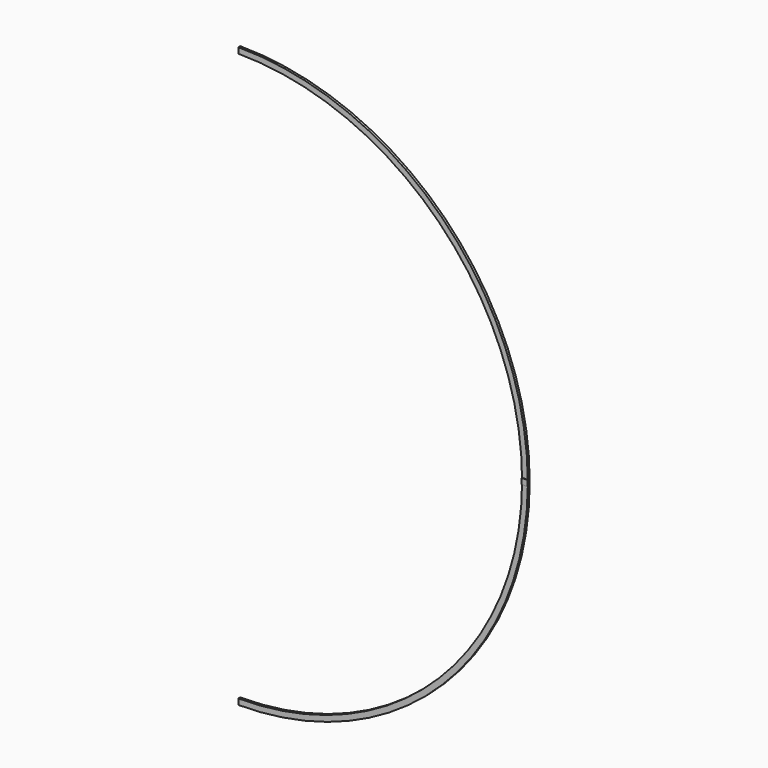
from build123d import *

# Parameters (mm, degrees)
F1_DEPTH = 4.1
F3_DEPTH = 1


with BuildPart() as f1:
    # F0 (on Front) → F1 (new body)
    with BuildSketch(Plane.XZ):
        with BuildLine():
            ThreePointArc((0, 495), (495, 0), (0, -495))
            Line((0, -495), (0, -505))
            ThreePointArc((0, -505), (505, 0), (0, 505))
            Line((0, 505), (0, 495))
        make_face()
    extrude(amount=F1_DEPTH)

    # F2 (on face) → F3 (join)
    with BuildSketch(Plane.XZ.offset(4.1)):
        with BuildLine():
            Line((504.975247, 5), (495, 5))
            Line((495, 5), (495, 0))
            Line((495, 0), (495, -5))
            Line((495, -5), (504.975247, -5))
            ThreePointArc((504.975247, -5), (504.993812, -2.500031), (505, 0))
            ThreePointArc((505, 0), (504.993812, 2.500031), (504.975247, 5))
        make_face()
    extrude(amount=F3_DEPTH)


solid = f1.part
